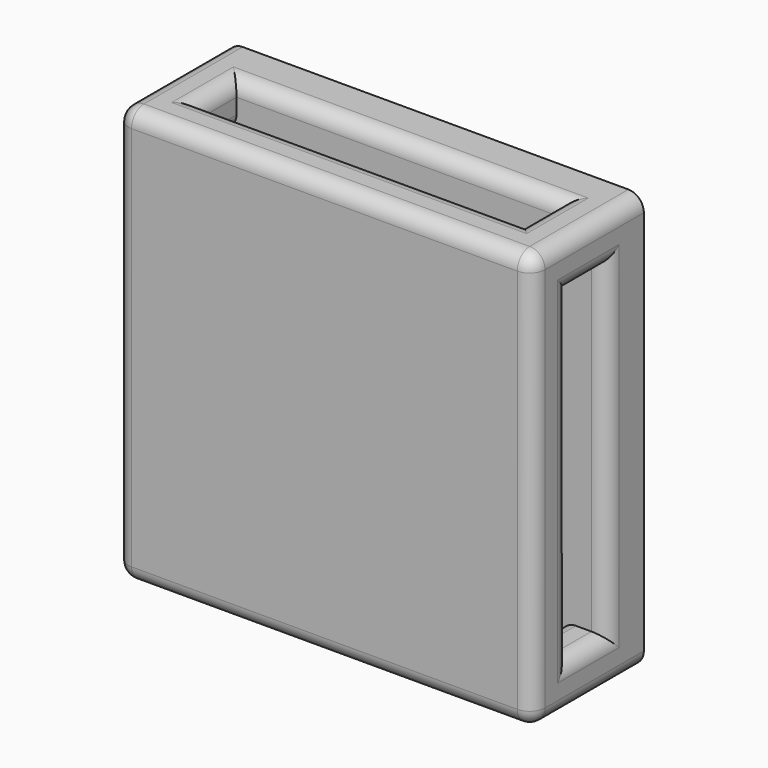
from build123d import *

# Parameters (mm, degrees)
F0_W     = 27
F0_H     = 27
F1_DEPTH = 3
F2_W     = 3
F2_H     = 3
F3_DEPTH = 3
F4_W     = 27
F4_H     = 27
F5_DEPTH = 3
F6_R     = 1


with BuildPart() as f1:
    # F0 (on Front) → F1 (new body)
    with BuildSketch(Plane.XZ):
        Rectangle(F0_W, F0_H)
    extrude(amount=F1_DEPTH)

    # F2 (on face) → F3 (join)
    with BuildSketch(Plane.XZ.offset(3)):
        with Locations((-12, 12)):
            Rectangle(F2_W, F2_H)
        with Locations((12, 12)):
            Rectangle(F2_W, F2_H)
        with Locations((12, -12)):
            Rectangle(F2_W, F2_H)
        with Locations((-12, -12)):
            Rectangle(F2_W, F2_H)
    extrude(amount=F3_DEPTH)

    # F4 (on face) → F5 (join)
    with BuildSketch(Plane.XZ.offset(6)):
        Rectangle(F4_W, F4_H)
    extrude(amount=F5_DEPTH)

    # F6
    f6_edges = [f1.edges().sort_by_distance(p)[0] for p in [
        (-13.5, -9, 0),
        (0, -9, 13.5),
        (13.5, -9, 0),
        (0, -9, -13.5),
        (-13.5, -3, 0),
        (-13.5, -6, 0),
        (-13.5, -4.5, 10.5),
        (-13.5, -4.5, -10.5),
        (0, -6, -13.5),
        (-10.5, -4.5, -13.5),
        (0, -3, -13.5),
        (10.5, -4.5, -13.5),
        (13.5, -4.5, -10.5),
        (13.5, -6, 0),
        (13.5, -4.5, 10.5),
        (13.5, -3, 0),
        (10.5, -4.5, 13.5),
        (0, -6, 13.5),
        (-10.5, -4.5, 13.5),
        (0, -3, 13.5),
        (10.5, -4.5, 10.5),
        (10.5, -4.5, -10.5),
        (-10.5, -4.5, -10.5),
        (-10.5, -4.5, 10.5),
        (-13.5, -4.5, 13.5),
        (13.5, -4.5, 13.5),
        (13.5, -4.5, -13.5),
        (-13.5, -4.5, -13.5),
    ]]
    fillet(f6_edges, radius=F6_R)


solid = f1.part
